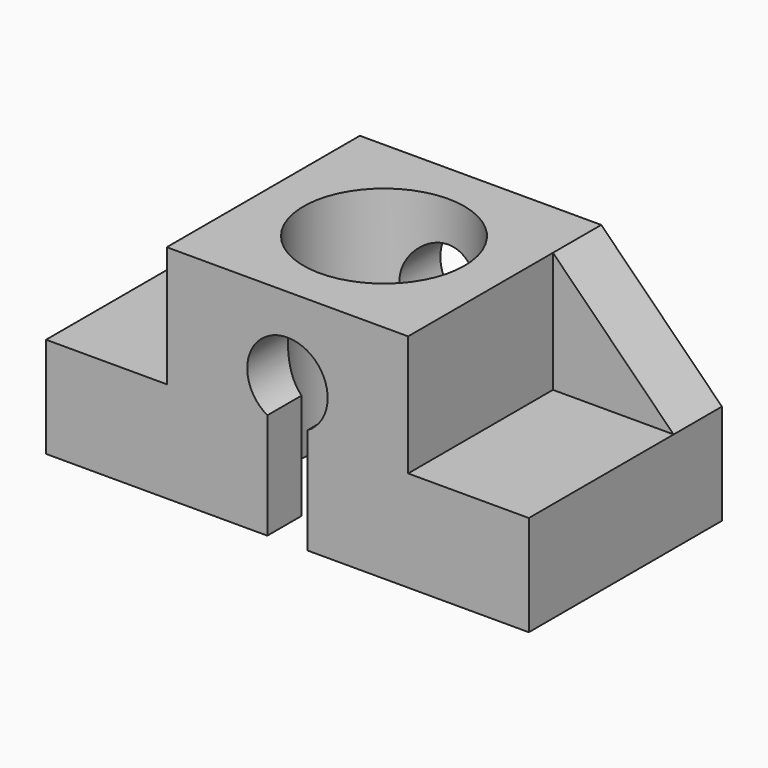
from build123d import *

# Parameters (mm, degrees)
F0_W     = 1200
F0_H     = 600
F1_DEPTH = 250
F2_W     = 600
F2_H     = 600
F3_DEPTH = 300
F5_DEPTH = 600.001
F6_R     = 200
F7_DEPTH = 550.001
F9_DEPTH = 150


with BuildPart() as f1:
    # F0 (on Top) → F1 (new body)
    with BuildSketch(Plane.XY):
        Rectangle(F0_W, F0_H)
    extrude(amount=F1_DEPTH)

    # F2 (on face) → F3 (join)
    with BuildSketch(Plane.XY.offset(250)):
        Rectangle(F2_W, F2_H)
    extrude(amount=F3_DEPTH)

    # F4 (on face) → F5 (cut, through all)
    with BuildSketch(Plane.XZ.offset(300)):
        with BuildLine():
            Line((-50, 263.39746), (-50, -350))
            Line((-50, -350), (50, -350))
            Line((50, -350), (50, 263.39746))
            ThreePointArc((50, 263.39746), (0, 450), (-50, 263.39746))
        make_face()
    extrude(amount=-F5_DEPTH, mode=Mode.SUBTRACT)

    # F6 (on face) → F7 (cut, through all)
    with BuildSketch(Plane.XY.offset(550)):
        Circle(F6_R)
    extrude(amount=-F7_DEPTH, mode=Mode.SUBTRACT)

    # F8 (on face) → F9 (join)
    with BuildSketch(Plane(origin=(0, 300, 0), x_dir=(-1, 0, 0), z_dir=(0, 1, 0))):
        Polygon((-300, 250), (-300, 550), (-600, 250), align=None)
        Polygon((600, 250), (300, 550), (300, 250), align=None)
    extrude(amount=-F9_DEPTH)


solid = f1.part
